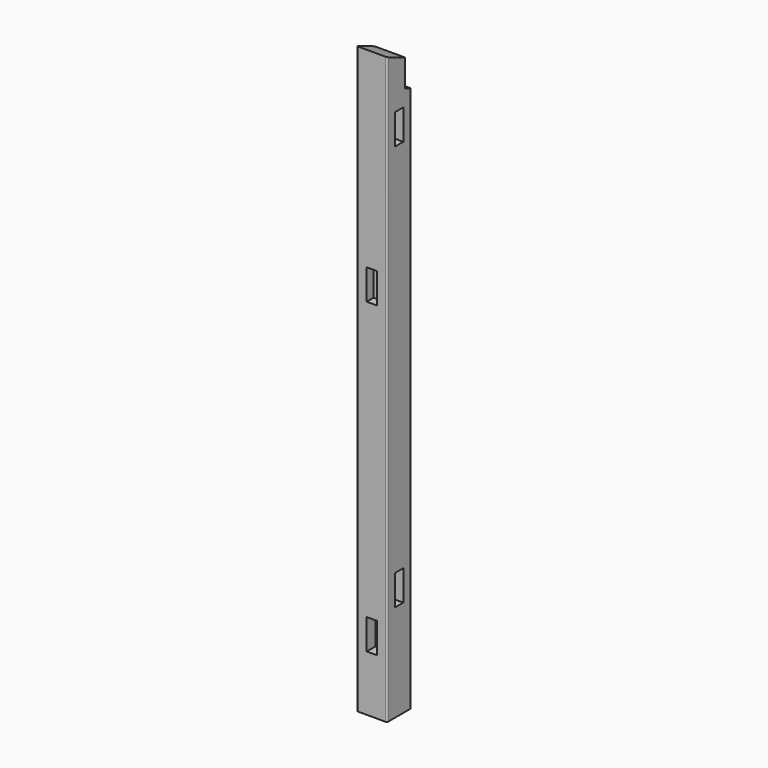
from build123d import *

# Parameters (mm, degrees)
F0_W      = 88
F0_H      = 88
F1_DEPTH  = 1700
F3_DEPTH  = 88.001
F5_DEPTH  = 88.001
F7_DEPTH  = 31
F9_DEPTH  = 31
F11_DEPTH = 31
F13_DEPTH = 25.0000003725
F14_R     = 5


with BuildPart() as f1:
    # F0 (on Top) → F1 (new body)
    with BuildSketch(Plane.XY):
        with Locations((44, 44)):
            Rectangle(F0_W, F0_H)
    extrude(amount=F1_DEPTH)

    # F2 (on face) → F3 (cut, through all)
    with BuildSketch(Plane(origin=(0, 0, 0), x_dir=(0, -1, 0), z_dir=(-1, 0, 0))):
        Polygon((-88, 1663.5492065112), (0, 1700), (-88, 1700), align=None)
    extrude(amount=-F3_DEPTH, mode=Mode.SUBTRACT)

    # F4 (on face) → F5 (cut, through all)
    with BuildSketch(Plane(origin=(0, 0, 0), x_dir=(0, -1, 0), z_dir=(-1, 0, 0))):
        Polygon((-65, 1594.0761184457), (-65, 1673.0761184457), (-88, 1663.5492065112), (-88, 1584.5492065112), align=None)
    extrude(amount=-F5_DEPTH, mode=Mode.SUBTRACT)

    # F6 (on face) → F7 (cut)
    with BuildSketch(Plane.YZ.offset(88)):
        Polygon((29, 282), (44, 282), (59, 282), (59, 370), (29, 370), align=None)
    extrude(amount=-F7_DEPTH, mode=Mode.SUBTRACT)

    # F8 (on face) → F9 (cut)
    with BuildSketch(Plane.YZ.offset(88)):
        Polygon((29, 1460), (44, 1460), (59, 1460), (59, 1548), (29, 1548), align=None)
    extrude(amount=-F9_DEPTH, mode=Mode.SUBTRACT)

    # F10 (on face) → F11 (cut)
    with BuildSketch(Plane.XZ):
        Polygon((29, 162), (44, 162), (59, 162), (59, 250), (29, 250), align=None)
    extrude(amount=-F11_DEPTH, mode=Mode.SUBTRACT)

    # F12 (on face) → F13 (cut)
    with BuildSketch(Plane.XZ):
        Polygon((29, 1056), (44, 1056), (59, 1056), (59, 1144), (29, 1144), align=None)
    extrude(amount=-F13_DEPTH, mode=Mode.SUBTRACT)

    # F14
    f14_edges = [f1.edges().sort_by_distance(p)[0] for p in [
        (88, 0, 850),
        (0, 0, 850),
        (88, 88, 792.274603),
        (0, 88, 792.274603),
    ]]
    fillet(f14_edges, radius=F14_R)


solid = f1.part
